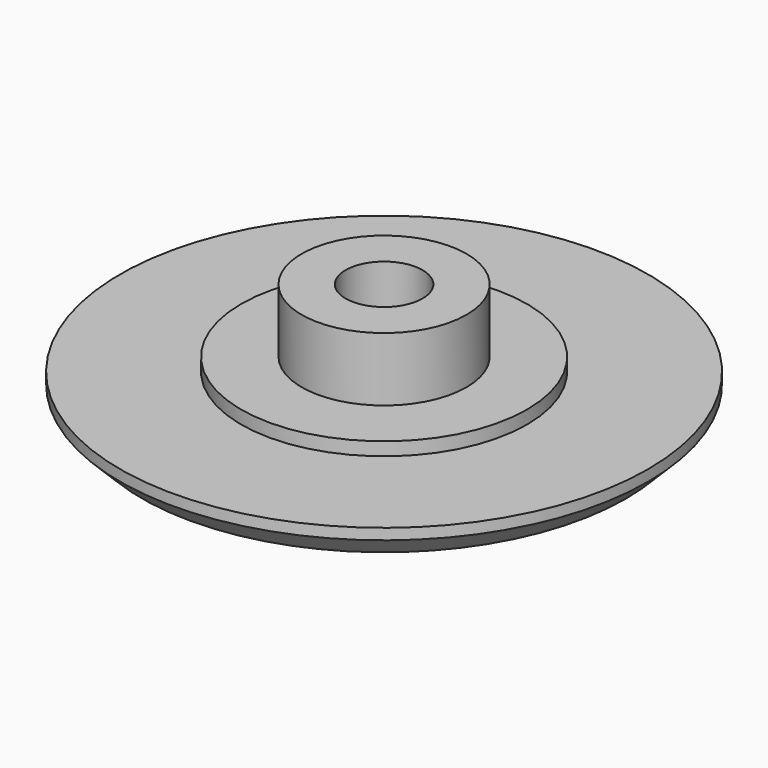
from build123d import *

# Parameters (mm, degrees)
F0_R     = 12
F0_R_2   = 6.5
F0_R_3   = 3.75
F0_R_4   = 1.75
F1_DEPTH = 1.5
F2_DEPTH = 3.5
F3_DEPTH = 0.6
F4_SIZE  = 1
F5_SIZE  = 1.2


with BuildPart() as f1:
    # F0 (on Top) → F1 (new body)
    with BuildSketch(Plane.XY):
        Circle(F0_R)
        Circle(F0_R_2, mode=Mode.SUBTRACT)
        Circle(F0_R_2)
        Circle(F0_R_3, mode=Mode.SUBTRACT)
        Circle(F0_R_3)
        Circle(F0_R_4, mode=Mode.SUBTRACT)
    extrude(amount=-F1_DEPTH)

    # F0 (on Top) → F2 (join)
    with BuildSketch(Plane.XY):
        Circle(F0_R_3)
        Circle(F0_R_4, mode=Mode.SUBTRACT)
    extrude(amount=F2_DEPTH)

    # F0 (on Top) → F3 (join)
    with BuildSketch(Plane.XY):
        Circle(F0_R_2)
        Circle(F0_R_3, mode=Mode.SUBTRACT)
    extrude(amount=F3_DEPTH)

    # F4
    f4_edges = [f1.edges().sort_by_distance(p)[0] for p in [
        (-12, 0, -1.5),
    ]]
    chamfer(f4_edges, length=F4_SIZE)

    # F5
    f5_edges = [f1.edges().sort_by_distance(p)[0] for p in [
        (-1.75, 0, -1.5),
    ]]
    chamfer(f5_edges, length=F5_SIZE)


solid = f1.part
